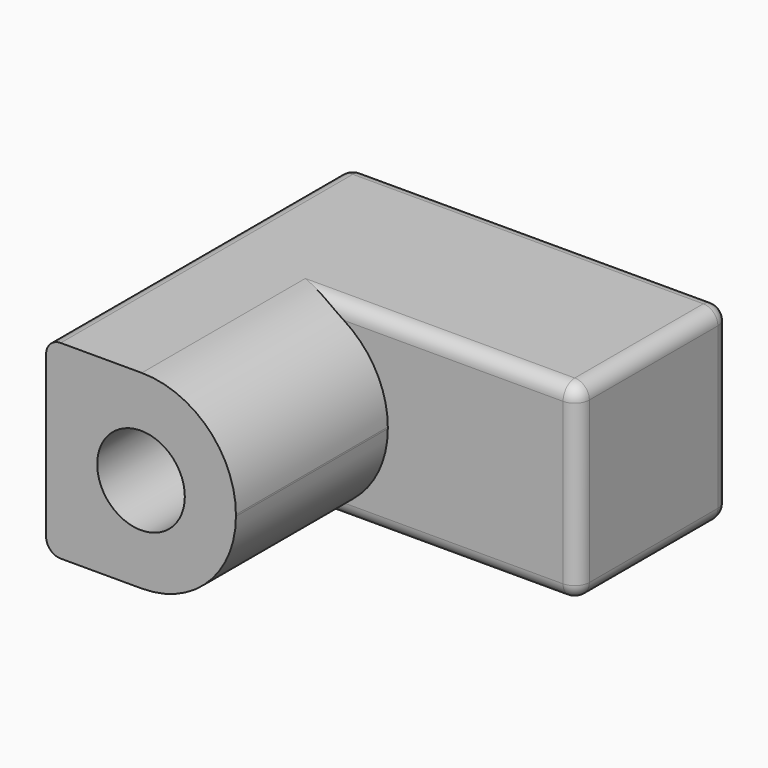
from build123d import *

# Parameters (mm, degrees)
PAD_DEPTH    = 13
SKETCH001_R  = 3
POCKET_DEPTH = 26.001
CHAMFER_SIZE = 2
FILLET_R     = 6.45
FILLET001_R  = 1
FILLET002_R  = 1
FILLET003_R  = 1


with BuildPart() as part:
    # Sketch → Pad (new body)
    with BuildSketch(Plane.XY):
        Polygon((-13, 6.5), (-13, -19.5), (0, -19.5), (0, -6.5), (13, -6.5), (13, 6.5), align=None)
    extrude(amount=PAD_DEPTH)

    # Sketch001 (on Face2 of Pad) → Pocket (cut, through all)
    with BuildSketch(Plane.XZ.offset(19.5)):
        with Locations((-6.5, 6.5)):
            Circle(SKETCH001_R)
    extrude(amount=-POCKET_DEPTH, mode=Mode.SUBTRACT)

    # Chamfer
    chamfer_edges = [part.edges().sort_by_distance(p)[0] for p in [
        (-9.5, 6.5, 6.5),
    ]]
    chamfer(chamfer_edges, length=CHAMFER_SIZE)

    # Fillet
    fillet_edges = [part.edges().sort_by_distance(p)[0] for p in [
        (0, -13, 13),
        (0, -13, 0),
    ]]
    fillet(fillet_edges, radius=FILLET_R)

    # Fillet001
    fillet001_edges = [part.edges().sort_by_distance(p)[0] for p in [
        (-13, -6.5, 13),
        (-13, -6.5, 0),
        (13, 0, 13),
        (13, 0, 0),
    ]]
    fillet(fillet001_edges, radius=FILLET001_R)

    # Fillet002
    fillet002_edges = [part.edges().sort_by_distance(p)[0] for p in [
        (0, 6.5, 0),
        (0, 6.5, 13),
        (13, 6.5, 6.5),
        (12.707107, 6.5, 0.292893),
        (12.707107, 6.5, 12.707107),
    ]]
    fillet(fillet002_edges, radius=FILLET002_R)

    # Fillet003
    fillet003_edges = [part.edges().sort_by_distance(p)[0] for p in [
        (6, -6.5, 13),
        (13, -6.5, 6.5),
        (6, -6.5, 0),
    ]]
    fillet(fillet003_edges, radius=FILLET003_R)


solid = part.part
